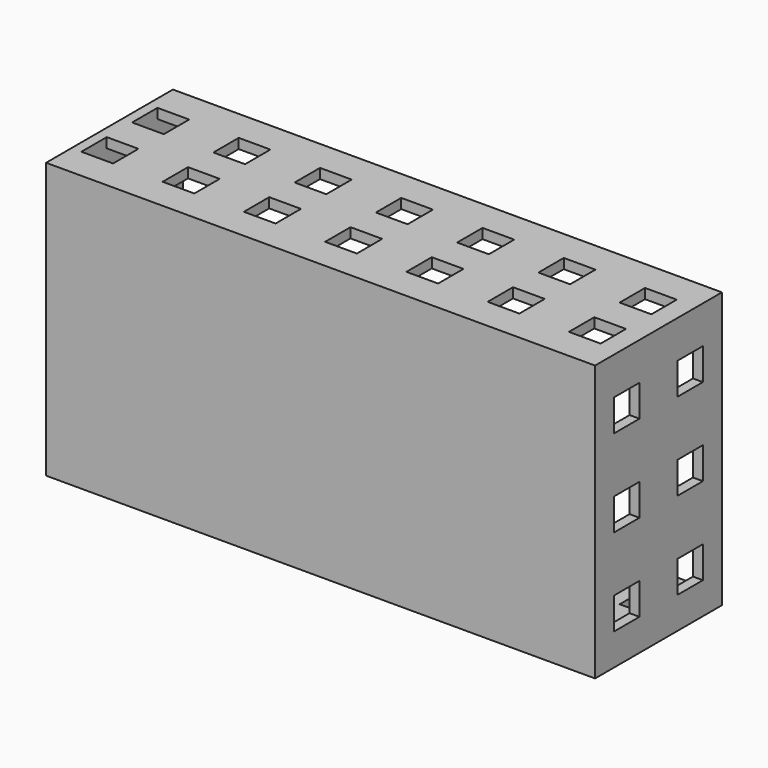
from build123d import *

# Parameters (mm, degrees)
F0_W     = 138.5
F0_H     = 69.5
F1_DEPTH = 40
F2_T     = -2.5
F3_W     = 8
F3_H     = 8
F4_DEPTH = 100
F5_W     = 8
F5_H     = 8
F6_DEPTH = 200


with BuildPart() as f1:
    # F0 (on Front) → F1 (new body)
    with BuildSketch(Plane.XZ):
        with Locations((69.25, 34.75)):
            Rectangle(F0_W, F0_H)
    extrude(amount=F1_DEPTH)

    # F2
    f2_openings = [f1.faces().sort_by_distance(p)[0] for p in [
        (69.25, 0, 34.75),
    ]]
    offset(amount=F2_T, openings=f2_openings)

    # F3 (on face) → F4 (cut)
    with BuildSketch(Plane(origin=(0, 0, 0), x_dir=(1, 0, 0), z_dir=(0, 0, -1))):
        with Locations((6.5, 28)):
            Rectangle(F3_W, F3_H)
        with Locations((27, 28)):
            Rectangle(F3_W, F3_H)
        with Locations((27, 12)):
            Rectangle(F3_W, F3_H)
        with Locations((6.5, 12)):
            Rectangle(F3_W, F3_H)
        with Locations((47.5, 12)):
            Rectangle(F3_W, F3_H)
        with Locations((47.5, 28)):
            Rectangle(F3_W, F3_H)
        with Locations((68, 28)):
            Rectangle(F3_W, F3_H)
        with Locations((68, 12)):
            Rectangle(F3_W, F3_H)
        with Locations((88.5, 12)):
            Rectangle(F3_W, F3_H)
        with Locations((88.5, 28)):
            Rectangle(F3_W, F3_H)
        with Locations((109, 28)):
            Rectangle(F3_W, F3_H)
        with Locations((109, 12)):
            Rectangle(F3_W, F3_H)
        with Locations((129.5, 12)):
            Rectangle(F3_W, F3_H)
        with Locations((129.5, 28)):
            Rectangle(F3_W, F3_H)
    extrude(amount=-F4_DEPTH, mode=Mode.SUBTRACT)

    # F5 (on face) → F6 (cut)
    with BuildSketch(Plane(origin=(0, 0, 0), x_dir=(0, -1, 0), z_dir=(-1, 0, 0))):
        with Locations((10, 12)):
            Rectangle(F5_W, F5_H)
        with Locations((10, 34)):
            Rectangle(F5_W, F5_H)
        with Locations((30, 12)):
            Rectangle(F5_W, F5_H)
        with Locations((30, 34)):
            Rectangle(F5_W, F5_H)
        with Locations((30, 56)):
            Rectangle(F5_W, F5_H)
        with Locations((10, 56)):
            Rectangle(F5_W, F5_H)
    extrude(amount=-F6_DEPTH, mode=Mode.SUBTRACT)


solid = f1.part
